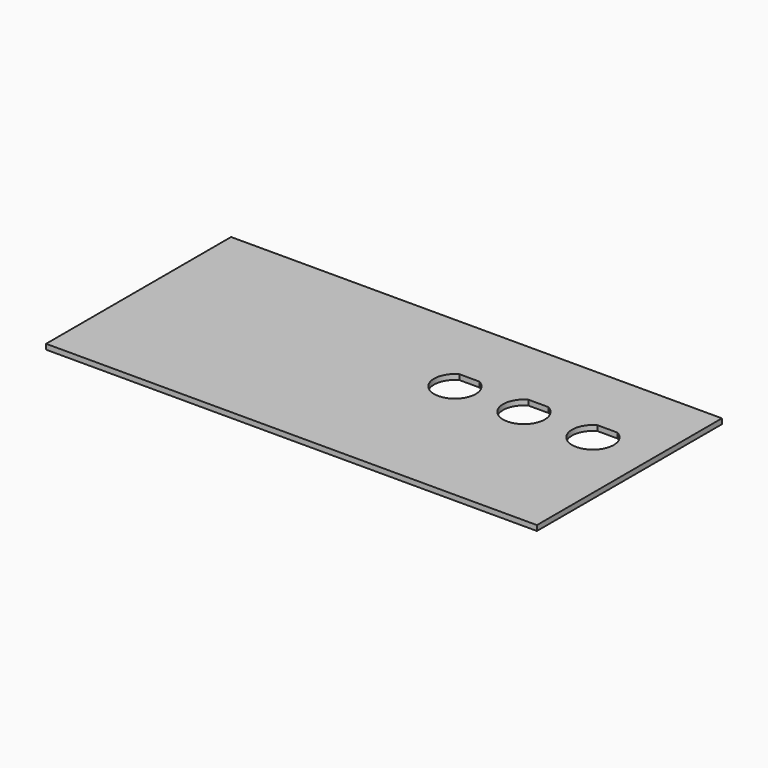
from build123d import *

# Parameters (mm, degrees)
F0_W     = 188.5
F0_H     = 88.8
F1_DEPTH = 2


with BuildPart() as f1:
    # F0 (on Top) → F1 (new body)
    with BuildSketch(Plane.XY):
        with Locations((-8.860654, -8.161481)):
            Rectangle(F0_W, F0_H)
        with BuildLine():
            ThreePointArc((13.762329, 9.438519), (9.889346, -5.561481), (6.016363, 9.438519))
            Line((6.016363, 9.438519), (13.762329, 9.438519))
        make_face(mode=Mode.SUBTRACT)
        with BuildLine():
            ThreePointArc((40.262329, 9.438519), (36.389346, -5.561481), (32.516363, 9.438519))
            Line((32.516363, 9.438519), (40.262329, 9.438519))
        make_face(mode=Mode.SUBTRACT)
        with BuildLine():
            ThreePointArc((66.762329, 9.438519), (62.889346, -5.561481), (59.016363, 9.438519))
            Line((59.016363, 9.438519), (66.762329, 9.438519))
        make_face(mode=Mode.SUBTRACT)
    extrude(amount=F1_DEPTH)


solid = f1.part
